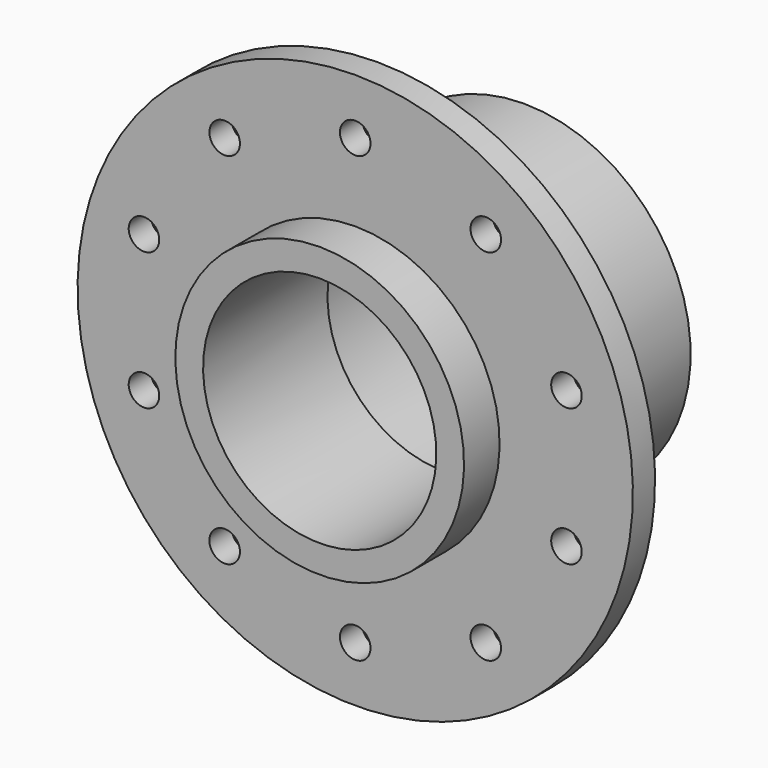
from build123d import *

# Parameters (mm, degrees)
F2_R     = 2.75
F3_DEPTH = 25


with BuildPart() as f1:
    # F0 (on Right) → F1 (revolve)
    with BuildSketch(Plane.YZ):
        Polygon((46, 2.5), (46, 9), (13, 9), (13, 29), (8, 29), (8, 5), (0, 5), (0, 0), (28, 0), (28, 2.5), align=None)
    revolve(axis=Axis((0, 26.05508, -21), (0, 1, 0)))

    # F2 (on face) → F3 (cut)
    with BuildSketch(Plane.XZ.offset(-8)):
        with Locations((-23.51141, 11.36068)):
            Circle(F2_R)
        with Locations((-38.042261, -8.63932)):
            Circle(F2_R)
        with Locations((-38.042261, -33.36068)):
            Circle(F2_R)
        with Locations((-23.51141, -53.36068)):
            Circle(F2_R)
        with Locations((0, -61)):
            Circle(F2_R)
        with Locations((23.51141, -53.36068)):
            Circle(F2_R)
        with Locations((38.042261, -33.36068)):
            Circle(F2_R)
        with Locations((38.042261, -8.63932)):
            Circle(F2_R)
        with Locations((23.51141, 11.36068)):
            Circle(F2_R)
        with Locations((0, 19)):
            Circle(F2_R)
    extrude(amount=-F3_DEPTH, mode=Mode.SUBTRACT)


solid = f1.part
